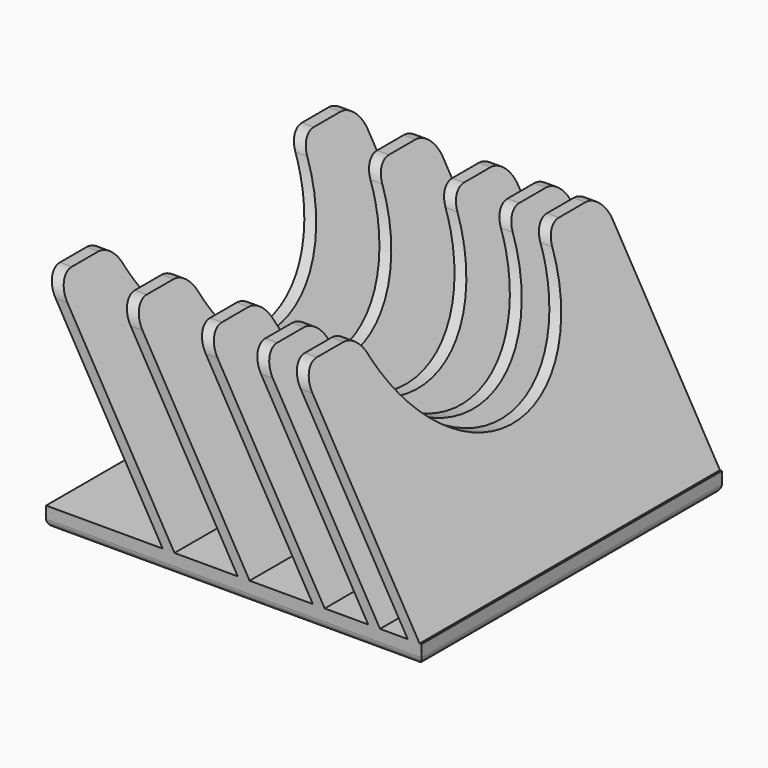
from build123d import *

# Parameters (mm, degrees)
SKETCH026_W     = 95
SKETCH026_H     = 95
PAD018_DEPTH    = 5
PAD019_DEPTH    = 95
SKETCH028_R     = 30
POCKET008_DEPTH = 95.501
FILLET020_R     = 5
FILLET021_R     = 2


with BuildPart() as part:
    # Sketch026 → Pad018 (new body)
    with BuildSketch(Plane.XY):
        Rectangle(SKETCH026_W, SKETCH026_H)
    extrude(amount=PAD018_DEPTH)

    # Sketch027 (on DatumPlane) → Pad019 (join)
    with BuildSketch(Plane(origin=(0, 47.5, 0), x_dir=(-1, 0, 0), z_dir=(0, 1, 0))):
        Polygon((-47, 5), (-17, 56.961524), (-14, 56.961524), (-44, 5), align=None)
        Polygon((-37, 5), (-7, 56.961524), (-4, 56.961524), (-34, 5), align=None)
        Polygon((-23, 5), (7, 56.961524), (10, 56.961524), (-20, 5), align=None)
        Polygon((-4, 5), (26, 56.961524), (29, 56.961524), (-1, 5), align=None)
        Polygon((15, 5), (45, 56.961524), (48, 56.961524), (18, 5), align=None)
    extrude(amount=-PAD019_DEPTH)

    # Sketch028 (on DatumPlane) → Pocket008 (cut, through all)
    with BuildSketch(Plane.YZ.offset(47.5)):
        with Locations((0, 60)):
            Circle(SKETCH028_R)
    extrude(amount=-POCKET008_DEPTH, mode=Mode.SUBTRACT)

    # Fillet020
    fillet020_edges = [part.edges().sort_by_distance(p)[0] for p in [
        (15.5, -47.5, 56.961524),
        (15.5, -29.845731, 56.961524),
        (5.5, -47.5, 56.961524),
        (5.5, -29.845731, 56.961524),
        (-8.5, -47.5, 56.961524),
        (-8.5, -29.845731, 56.961524),
        (-27.5, -47.5, 56.961524),
        (-27.5, -29.845731, 56.961524),
        (-46.5, -47.5, 56.961524),
        (-46.5, -29.845731, 56.961524),
        (15.5, 29.845731, 56.961524),
        (15.5, 47.5, 56.961524),
        (5.5, 29.845731, 56.961524),
        (5.5, 47.5, 56.961524),
        (-8.5, 29.845731, 56.961524),
        (-8.5, 47.5, 56.961524),
        (-27.5, 29.845731, 56.961524),
        (-27.5, 47.5, 56.961524),
        (-46.5, 29.845731, 56.961524),
        (-46.5, 47.5, 56.961524),
    ]]
    fillet(fillet020_edges, radius=FILLET020_R)

    # Fillet021
    fillet021_edges = [part.edges().sort_by_distance(p)[0] for p in [
        (0, 47.5, 0),
        (47.5, 0, 0),
        (0, -47.5, 0),
        (-47.5, 0, 0),
    ]]
    fillet(fillet021_edges, radius=FILLET021_R)


with BuildPart() as part_1:
    # Body012 placement: moved
    add(part.part.moved(Location((-47, 233, 0))))


solid = part_1.part
